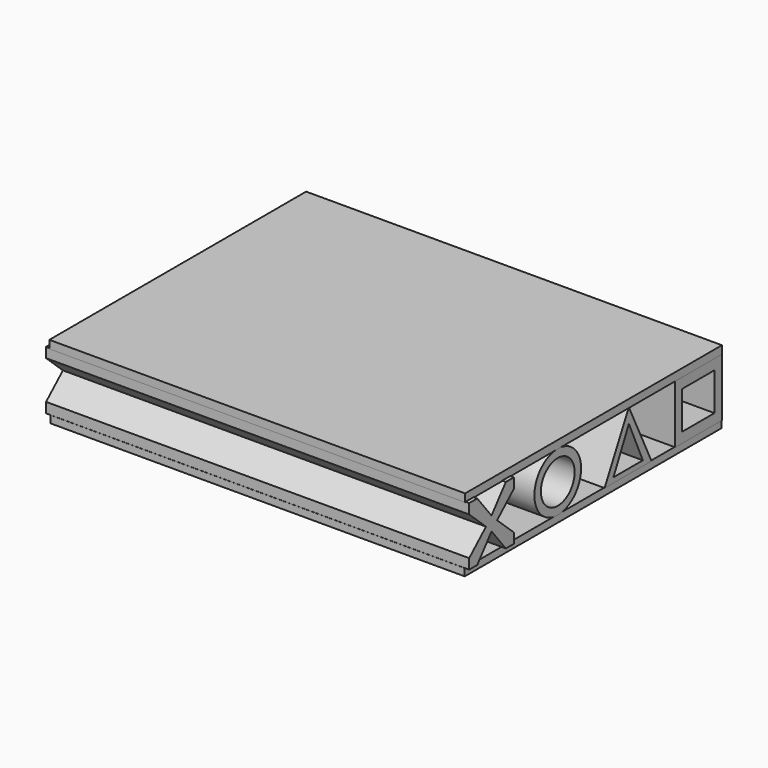
from build123d import *

# Parameters (mm, degrees)
F0_W      = 360.68
F0_H      = 279.4
F1_DEPTH  = 6.35
F2_W      = 50.8
F2_H      = 50.8
F3_DEPTH  = 180.975
F5_DEPTH  = 180.975
F6_W      = 35.2113991976
F6_H      = 32.8375957906
F7_DEPTH  = 180.975
F9_DEPTH  = 180.975
F10_R     = 25.414603267
F12_DEPTH = 180.975
F11_R     = 18.362153416
F13_DEPTH = 180.975
F14_W     = 48.641
F14_H     = 50.9879244491
F15_DEPTH = 184.15
F17_DEPTH = 368.3
F22_DEPTH = 381
F23_DEPTH = 381
F24_DEPTH = 381
F25_W     = 279.4
F25_H     = 6.9440653814
F26_DEPTH = 180.975


with BuildPart() as f1:
    # F0 (on Top) → F1 (new body)
    with BuildSketch(Plane.XY):
        Rectangle(F0_W, F0_H)
    extrude(amount=F1_DEPTH)


with BuildPart() as f3:
    # F2 (on Right) → F3 (new body, symmetric)
    with BuildSketch(Plane.YZ):
        with Locations((113.9425359011, 31.7058333471)):
            Rectangle(F2_W, F2_H)
    extrude(amount=F3_DEPTH, both=True)

    # F6 (on Right) → F7 (cut, symmetric)
    with BuildSketch(Plane.YZ):
        with Locations((113.6018633842, 31.6396355629)):
            Rectangle(F6_W, F6_H)
    extrude(amount=F7_DEPTH, both=True, mode=Mode.SUBTRACT)


with BuildPart() as f5:
    # F4 (on Right) → F5 (new body, symmetric)
    with BuildSketch(Plane.YZ):
        Polygon((38.0530171096, 57.5986728072), (11.6845108569, 6.3749314286), (62.7245157957, 6.3526430167), align=None)
    extrude(amount=F5_DEPTH, both=True)

    # F8 (on Right) → F9 (cut, symmetric)
    with BuildSketch(Plane.YZ):
        Polygon((53.2804466784, 10.7010677457), (38.1071306765, 44.9292398989), (21.2871003896, 10.7010677457), align=None)
    extrude(amount=F9_DEPTH, both=True, mode=Mode.SUBTRACT)


with BuildPart() as f12:
    # F10 (on Right) → F12 (new body, symmetric)
    with BuildSketch(Plane.YZ):
        with Locations((-39.2878577113, 31.7920409143)):
            Circle(F10_R)
    extrude(amount=F12_DEPTH, both=True)

    # F11 (on Right) → F13 (cut, symmetric)
    with BuildSketch(Plane.YZ):
        with Locations((-39.2758585513, 31.8021848798)):
            Circle(F11_R)
    extrude(amount=F13_DEPTH, both=True, mode=Mode.SUBTRACT)


with BuildPart() as f15:
    # F14 (on Right) → F15 (new body, symmetric)
    with BuildSketch(Plane.YZ):
        with Locations((-115.3208594484, 31.875770539)):
            Rectangle(F14_W, F14_H)
    extrude(amount=F15_DEPTH, both=True)

    # F16 (on face) → F17 (cut, symmetric)
    with BuildSketch(Plane(origin=(-184.15, 0, 0), x_dir=(0, -1, 0), z_dir=(-1, 0, 0))):
        Polygon((130.8860778809, 57.3697327636), (99.8007804155, 57.3697327636), (115.3434291482, 37.9464551806), align=None)
    extrude(amount=F17_DEPTH, both=True, mode=Mode.SUBTRACT)

    # F21 (on face) → F22 (cut, symmetric)
    with BuildSketch(Plane(origin=(-184.15, 0, 0), x_dir=(0, -1, 0), z_dir=(-1, 0, 0))):
        Polygon((139.6998167038, 48.7534217536), (139.6171450615, 48.6609376967), (121.3458627462, 31.8812094629), (139.6998167038, 15.1609433815), (139.6998167038, 48.6609376967), (139.6998167038, 48.7179011106), align=None)
    extrude(amount=F22_DEPTH, both=True, mode=Mode.SUBTRACT)

    # F20 (on face) → F23 (cut, symmetric)
    with BuildSketch(Plane(origin=(-184.15, 0, 0), x_dir=(0, -1, 0), z_dir=(-1, 0, 0))):
        Polygon((109.2811301351, 31.8714790046), (90.9482911229, 48.6935228109), (90.9860432148, 15.1703031734), align=None)
    extrude(amount=F23_DEPTH, both=True, mode=Mode.SUBTRACT)

    # F19 (on face) → F24 (cut, symmetric)
    with BuildSketch(Plane(origin=(-184.15, 0, 0), x_dir=(0, -1, 0), z_dir=(-1, 0, 0))):
        Polygon((115.3363063931, 25.8554723114), (99.7065967548, 6.3818083145), (130.8921417904, 6.3818083145), align=None)
    extrude(amount=F24_DEPTH, both=True, mode=Mode.SUBTRACT)


with BuildPart() as f26:
    # F25 (on Right) → F26 (new body, symmetric)
    with BuildSketch(Plane.YZ):
        with Locations((-0.3675696945, 60.4931823909)):
            Rectangle(F25_W, F25_H)
    extrude(amount=F26_DEPTH, both=True)


solid = Compound([f1.part, f3.part, f5.part, f12.part, f15.part, f26.part])
